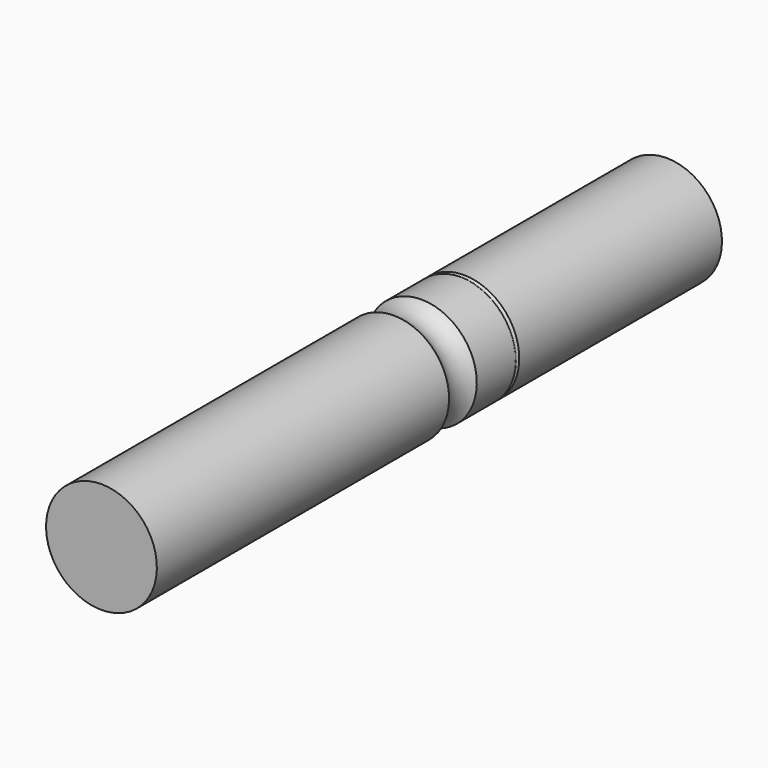
from build123d import *


with BuildPart() as f1:
    # F0 (on Right) → F1 (revolve)
    with BuildSketch(Plane.YZ):
        with BuildLine():
            Line((0, 8), (0, 0))
            Line((0, 0), (102, 0))
            Line((102, 0), (102, 8))
            Line((102, 8), (65.41225, 8))
            ThreePointArc((65.41225, 8), (65.1, 7.85), (64.78775, 8))
            Line((64.78775, 8), (57.747999, 8))
            ThreePointArc((57.747999, 8), (55.25, 6.8), (52.752001, 8))
            Line((52.752001, 8), (0, 8))
        make_face()
    revolve(axis=Axis((0, 51, 0), (0, -1, 0)))


solid = f1.part
